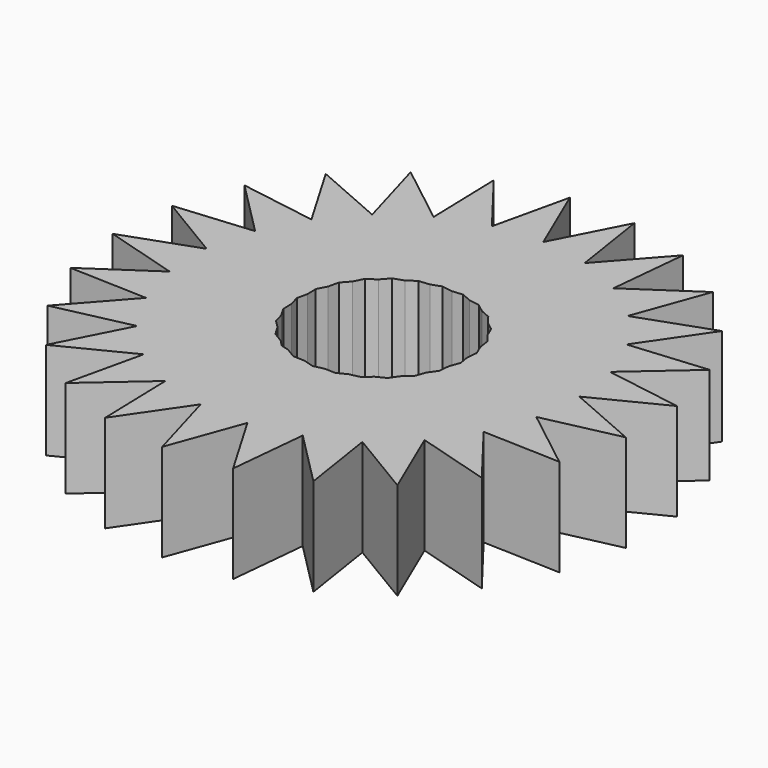
from build123d import *

# Parameters (mm, degrees)
F1_DEPTH = 6.35


with BuildPart() as f1:
    # F0 (on Top) → F1 (new body)
    with BuildSketch(Plane.XY):
        Polygon((-9.9249884928, -7.6425344914), (-12.247526979, -12.1611884982), (-7.7125556882, -9.8706744851), (-7.0632786771, -7.0134863597), align=None)
        Polygon((-14.8871129928, -8.7332862962), (-9.9249884928, -7.6425344914), (-8.5855559204, -5.0365788116), (-11.5137977688, -4.9341859484), align=None)
        Polygon((-2.689317388, 12.2344310052), (-0.9016808431, 9.9129142155), (0.4368313525, 12.5170792408), (-1.5634892742, 17.1887150212), align=None)
        Polygon((2.7602902155, 17.0375239022), (0.4368313525, 12.5170792408), (1.59009399, 9.8236995246), (3.5373152954, 12.0167021489), align=None)
        Polygon((6.9106305194, 15.8158024967), (3.5373152954, 12.0167021489), (3.9854338983, 9.1211410048), (6.4146163322, 10.759480812), align=None)
        Polygon((6.5561399087, -7.4897213623), (7.0148097041, -10.4534600445), (11.3956434652, -13.0766071379), (9.3563779673, -8.3140178118), align=None)
        Polygon((4.4824223233, -8.9371220687), (4.2014921158, -11.8008980182), (7.7812835915, -15.4061042596), (7.0148097041, -10.4534600445), align=None)
        Polygon((2.136988413, -9.7217373504), (1.1347305184, -12.4750197068), (3.7054779287, -16.8572197029), (4.2014921158, -11.8008980182), align=None)
        Polygon((-16.8305841839, 3.8246383906), (-12.478542001, 1.2187310622), (-9.7063763642, 2.2057095149), (-11.770880067, 4.2848701827), align=None)
        Polygon((-15.3506715427, 7.8900764242), (-11.770880067, 4.2848701827), (-8.8528950516, 4.5502907373), (-10.3354723423, 7.0775519423), align=None)
        Polygon((-12.9062197526, 11.4597519383), (-10.3354723423, 7.0775519423), (-7.4431537842, 6.6089604578), (-8.2506488792, 9.4255250839), align=None)
        Polygon((9.1491069561, 3.9208083979), (12.0414255143, 3.4522169134), (15.8642946714, 6.7985717154), (10.8045905545, 6.3383399234), align=None)
        Polygon((9.8367363351, 1.5223386156), (12.5216534238, 0.3491784184), (17.0566247147, 2.6396924315), (12.0414255143, 3.4522169134), align=None)
        Polygon((9.9062873932, -0.9717853007), (12.2150997973, -2.7758002408), (17.1772242973, -1.685048436), (12.5216534238, 0.3491784184), align=None)
        Polygon((-5.0971896576, -8.549710766), (-7.7125556882, -9.8706744851), (-8.8383838019, -14.8249585011), (-5.0155146449, -11.4786036991), align=None)
        Polygon((-16.5912869462, -4.7566395974), (-11.5137977688, -4.9341859484), (-9.5683711098, -2.7432044935), (-12.3791527863, -1.9158043555), align=None)
        Polygon((10.6267504922, 13.600316054), (6.4146163322, 10.759480812), (6.128559691, 7.8434464811), (8.8888634336, 8.8262017251), align=None)
        Polygon((-0.3478467723, -9.9477585018), (-2.0033303707, -12.3652900273), (-0.6031565401, -17.2491340356), (1.1347305184, -12.4750197068), align=None)
        Polygon((-9.6508227097, 14.3093690922), (-8.2506488792, 9.4255250839), (-5.5657317905, 8.2523648867), (-5.6474068032, 11.1812578198), align=None)
        Polygon((9.3533899816, -3.4048483725), (11.1410265265, -5.7263651621), (16.2185157039, -5.9039115131), (12.2150997973, -2.7758002408), align=None)
        Polygon((-17.2529693223, -0.4811157391), (-12.3791527863, -1.9158043555), (-9.9639958973, -0.2869239484), (-12.478542001, 1.2187310622), align=None)
        Polygon((8.8888634336, 8.8262017251), (7.886605539, 6.0729193688), (10.8045905545, 6.3383399234), (13.6751526491, 10.5302717351), align=None)
        Polygon((-2.8108254657, -9.5487254013), (-5.0155146449, -11.4786036991), (-4.8738924653, -16.557221839), (-2.0033303707, -12.3652900273), align=None)
        Polygon((-5.7890289828, 16.2598759598), (-5.6474068032, 11.1812578198), (-3.3385943991, 9.3772428798), (-2.689317388, 12.2344310052), align=None)
        Polygon((8.2044177088, -5.6236797282), (9.3563779673, -8.3140178118), (14.2407381212, -9.7518101167), (11.1410265265, -5.7263651621), align=None)
        Polygon((-11.5137977688, -4.9341859484), (-8.5855559204, -5.0365788116), (-7.6908568489, -3.2958819112), (-9.5683711098, -2.7432044935), align=None)
        Polygon((0.4368313525, 12.5170792408), (-0.9016808431, 9.9129142155), (0.2924044657, 8.3622135988), (1.59009399, 9.8236995246), align=None)
        Polygon((6.4146163322, 10.759480812), (3.9854338983, 9.1211410048), (4.2847631114, 7.1869967109), (6.128559691, 7.8434464811), align=None)
        Polygon((6.2568106956, -5.5555770683), (6.5561399087, -7.4897213623), (9.3563779673, -8.3140178118), (8.2044177088, -5.6236797282), align=None)
        Polygon((2.7912330824, -7.9244750742), (2.136988413, -9.7217373504), (4.2014921158, -11.8008980182), (4.4824223233, -8.9371220687), align=None)
        Polygon((0.7579645009, -8.3329230441), (-0.3478467723, -9.9477585018), (1.1347305184, -12.4750197068), (2.136988413, -9.7217373504), align=None)
        Polygon((-12.478542001, 1.2187310622), (-9.9639958973, -0.2869239484), (-8.3273524521, 0.8168952086), (-9.7063763642, 2.2057095149), align=None)
        Polygon((-10.3354723423, 7.0775519423), (-8.8528950516, 4.5502907373), (-6.9037723127, 4.7275833675), (-7.4431537842, 6.6089604578), align=None)
        Polygon((-8.2506488792, 9.4255250839), (-7.4431537842, 6.6089604578), (-5.5111754362, 6.2959560001), (-5.5657317905, 8.2523648867), align=None)
        Polygon((8.0432956829, 2.3059729401), (9.8367363351, 1.5223386156), (12.0414255143, 3.4522169134), (9.1491069561, 3.9208083979), align=None)
        Polygon((8.3640729087, 0.233240264), (9.9062873932, -0.9717853007), (12.5216534238, 0.3491784184), (9.8367363351, 1.5223386156), align=None)
        Polygon((-3.3502069371, -7.667348311), (-5.0971896576, -8.549710766), (-5.0155146449, -11.4786036991), (-2.8108254657, -9.5487254013), align=None)
        Polygon((-7.0632786771, -7.0134863597), (-7.7125556882, -9.8706744851), (-5.0971896576, -8.549710766), (-5.1517460119, -6.5933018793), align=None)
        Polygon((-12.3791527863, -1.9158043555), (-9.5683711098, -2.7432044935), (-8.2817684408, -1.2942048232), (-9.9639958973, -0.2869239484), align=None)
        Polygon((8.8888634336, 8.8262017251), (6.128559691, 7.8434464811), (5.9374828002, 5.8956267385), (7.886605539, 6.0729193688), align=None)
        Polygon((7.4349186173, -3.8265580864), (8.2044177088, -5.6236797282), (11.1410265265, -5.7263651621), (9.3533899816, -3.4048483725), align=None)
        Polygon((-2.0660911099, -7.0187697185), (-3.3502069371, -7.667348311), (-2.8108254657, -9.5487254013), (-1.3381620393, -8.2596270497), align=None)
        Polygon((-6.6295819379, -5.1049740422), (-7.0632786771, -7.0134863597), (-5.1517460119, -6.5933018793), (-5.1918475408, -5.1552478068), align=None)
        Polygon((-9.5683711098, -2.7432044935), (-7.6908568489, -3.2958819112), (-7.0432040229, -2.0358300091), (-8.2817684408, -1.2942048232), align=None)
        Polygon((-9.7063763642, 2.2057095149), (-8.3273524521, 0.8168952086), (-7.134650714, 1.621301954), (-7.8625797846, 2.8621592851), align=None)
        Polygon((-7.4431537842, 6.6089604578), (-6.9037723127, 4.7275833675), (-5.4710739073, 4.8579019275), (-5.5111754362, 6.2959560001), align=None)
        Polygon((-3.7722911382, 7.4687305622), (-2.4540265099, 6.8927218662), (-1.7963799146, 8.1722173151), (-3.3385943991, 9.3772428798), align=None)
        Polygon((1.59009399, 9.8236995246), (0.2924044657, 8.3622135988), (1.1701142599, 7.2223745025), (2.3602476918, 8.0250490774), align=None)
        Polygon((6.128559691, 7.8434464811), (4.2847631114, 7.1869967109), (4.5047843947, 5.7653081785), (5.9374828002, 5.8956267385), align=None)
        Polygon((7.2171286082, 4.2338128556), (6.7250310546, 2.8819816361), (8.0432956829, 2.3059729401), (9.1491069561, 3.9208083979), align=None)
        Polygon((7.2815948785, -0.7143086595), (8.1593046728, -1.8541477557), (9.9062873932, -0.9717853007), (8.3640729087, 0.233240264), align=None)
        Polygon((6.0367894123, -4.133888536), (6.2568106956, -5.5555770683), (8.2044177088, -5.6236797282), (7.4349186173, -3.8265580864), align=None)
        Polygon((3.2985628975, -6.5307996178), (2.7912330824, -7.9244750742), (4.4824223233, -8.9371220687), (4.6786256479, -6.9370439447), align=None)
        Polygon((-0.2556840091, -7.3120781262), (-1.3381620393, -8.2596270497), (-0.3478467723, -9.9477585018), (0.7579645009, -8.3329230441), align=None)
        Polygon((1.5475949938, -7.1798118856), (0.7579645009, -8.3329230441), (2.136988413, -9.7217373504), (2.7912330824, -7.9244750742), align=None)
        Polygon((4.8190762985, -5.5053033037), (4.6786256479, -6.9370439447), (6.5561399087, -7.4897213623), (6.2568106956, -5.5555770683), align=None)
        Polygon((6.8693397476, -2.5056805986), (7.4349186173, -3.8265580864), (9.3533899816, -3.4048483725), (8.1593046728, -1.8541477557), align=None)
        Polygon((7.2304715254, 1.1189916693), (8.3640729087, 0.233240264), (9.8367363351, 1.5223386156), (8.0432956829, 2.3059729401), align=None)
        Polygon((5.9374828002, 5.8956267385), (5.7970321496, 4.4638860976), (7.2171286082, 4.2338128556), (7.886605539, 6.0729193688), align=None)
        Polygon((3.9854338983, 9.1211410048), (2.3602476918, 8.0250490774), (2.9261977991, 6.7033045851), (4.2847631114, 7.1869967109), align=None)
        Polygon((-0.9016808431, 9.9129142155), (-1.7963799146, 8.1722173151), (-0.6627785313, 7.2864659098), (0.2924044657, 8.3622135988), align=None)
        Polygon((-5.5657317905, 8.2523648867), (-5.5111754362, 6.2959560001), (-4.0910789776, 6.0658827581), (-3.7722911382, 7.4687305622), align=None)
        Polygon((-8.8528950516, 4.5502907373), (-7.8625797846, 2.8621592851), (-6.5073011421, 3.3446812528), (-6.9037723127, 4.7275833675), align=None)
        Polygon((-9.9639958973, -0.2869239484), (-8.2817684408, -1.2942048232), (-7.3137039421, -0.2039497093), (-8.3273524521, 0.8168952086), align=None)
        Polygon((-7.6908568489, -3.2958819112), (-8.5855559204, -5.0365788116), (-6.6295819379, -5.1049740422), (-6.3107940985, -3.702126238), align=None)
        Polygon((-5.1517460119, -6.5933018793), (-5.0971896576, -8.549710766), (-3.3502069371, -7.667348311), (-3.7466781078, -6.2844461962), align=None)
        Polygon((-6.3107940985, -3.702126238), (-6.6295819379, -5.1049740422), (-5.1918475408, -5.1552478068), (-5.2234435106, -4.022205892), align=None)
        Polygon((-8.2817684408, -1.2942048232), (-7.0432040229, -2.0358300091), (-6.5150509077, -1.008272789), (-7.3137039421, -0.2039497093), align=None)
        Polygon((-7.8625797846, 2.8621592851), (-7.134650714, 1.621301954), (-6.1949217518, 2.2550935314), (-6.5073011421, 3.3446812528), align=None)
        Polygon((-5.5111754362, 6.2959560001), (-5.4710739073, 4.8579019275), (-4.3422517192, 4.9605798404), (-4.0910789776, 6.0658827581), align=None)
        Polygon((-1.7963799146, 8.1722173151), (-2.4540265099, 6.8927218662), (-1.4153666242, 6.4388849707), (-0.6627785313, 7.2864659098), align=None)
        Polygon((2.3602476918, 8.0250490774), (1.1701142599, 7.2223745025), (1.8616612642, 6.3242959832), (2.9261977991, 6.7033045851), align=None)
        Polygon((4.5047843947, 5.7653081785), (4.6781390279, 4.6451606627), (5.7970321496, 4.4638860976), (5.9374828002, 5.8956267385), align=None)
        Polygon((6.7250310546, 2.8819816361), (6.3373076963, 1.816874654), (7.2304715254, 1.1189916693), (8.0432956829, 2.3059729401), align=None)
        Polygon((6.4238103153, -1.4651717873), (6.8693397476, -2.5056805986), (8.1593046728, -1.8541477557), (7.2815948785, -0.7143086595), align=None)
        Polygon((4.9297372792, -4.3772357378), (4.8190762985, -5.5053033037), (6.2568106956, -5.5555770683), (6.0367894123, -4.133888536), align=None)
        Polygon((2.2112123096, -6.2107199638), (1.5475949938, -7.1798118856), (2.7912330824, -7.9244750742), (3.2985628975, -6.5307996178), align=None)
        Polygon((-1.0543370435, -6.5077550465), (-2.0660911099, -7.0187697185), (-1.3381620393, -8.2596270497), (-0.2556840091, -7.3120781262), align=None)
        Polygon((-5.1918475408, -5.1552478068), (-5.1517460119, -6.5933018793), (-3.7466781078, -6.2844461962), (-4.059057498, -5.1948584749), align=None)
        Polygon((-3.7466781078, -6.2844461962), (-3.3502069371, -7.667348311), (-2.0660911099, -7.0187697185), (-2.6396259747, -6.0410989944), align=None)
        Polygon((0.5665164592, -6.5923635945), (-0.2556840091, -7.3120781262), (0.7579645009, -8.3329230441), (1.5475949938, -7.1798118856), align=None)
        Polygon((3.6862862557, -5.4656926356), (3.2985628975, -6.5307996178), (4.6786256479, -6.9370439447), (4.8190762985, -5.5053033037), align=None)
        Polygon((5.8634347792, -3.0137410202), (6.0367894123, -4.133888536), (7.4349186173, -3.8265580864), (6.8693397476, -2.5056805986), align=None)
        Polygon((4.2847631114, 7.1869967109), (2.9261977991, 6.7033045851), (3.3719542022, 5.6622656967), (4.5047843947, 5.7653081785), align=None)
        Polygon((0.2924044657, 8.3622135988), (-0.6627785313, 7.2864659098), (0.2303852978, 6.5885829251), (1.1701142599, 7.2223745025), align=None)
        Polygon((-4.0910789776, 6.0658827581), (-2.9721858559, 5.884608193), (-2.4540265099, 6.8927218662), (-3.7722911382, 7.4687305622), align=None)
        Polygon((-6.9037723127, 4.7275833675), (-6.5073011421, 3.3446812528), (-5.4394779374, 3.7248600128), (-5.4710739073, 4.8579019275), align=None)
        Polygon((-8.3273524521, 0.8168952086), (-7.3137039421, -0.2039497093), (-6.5611158492, 0.6436312299), (-7.134650714, 1.621301954), align=None)
        Polygon((-7.0432040229, -2.0358300091), (-7.6908568489, -3.2958819112), (-6.3107940985, -3.702126238), (-6.0652129672, -2.6214295857), align=None)
        Polygon((-8.5855559204, -5.0365788116), (-9.9249884928, -7.6425344914), (-7.0632786771, -7.0134863597), (-6.6295819379, -5.1049740422), align=None)
        Polygon((-1.3381620393, -8.2596270497), (-2.8108254657, -9.5487254013), (-2.0033303707, -12.3652900273), (-0.3478467723, -9.9477585018), align=None)
        Polygon((4.6786256479, -6.9370439447), (4.4824223233, -8.9371220687), (7.0148097041, -10.4534600445), (6.5561399087, -7.4897213623), align=None)
        Polygon((8.1593046728, -1.8541477557), (9.3533899816, -3.4048483725), (12.2150997973, -2.7758002408), (9.9062873932, -0.9717853007), align=None)
        Polygon((7.886605539, 6.0729193688), (7.2171286082, 4.2338128556), (9.1491069561, 3.9208083979), (10.8045905545, 6.3383399234), align=None)
        Polygon((3.5373152954, 12.0167021489), (1.59009399, 9.8236995246), (2.3602476918, 8.0250490774), (3.9854338983, 9.1211410048), align=None)
        Polygon((-5.6474068032, 11.1812578198), (-5.5657317905, 8.2523648867), (-3.7722911382, 7.4687305622), (-3.3385943991, 9.3772428798), align=None)
        Polygon((-11.770880067, 4.2848701827), (-9.7063763642, 2.2057095149), (-7.8625797846, 2.8621592851), (-8.8528950516, 4.5502907373), align=None)
        Polygon((-3.3385943991, 9.3772428798), (-1.7963799146, 8.1722173151), (-0.9016808431, 9.9129142155), (-2.689317388, 12.2344310052), align=None)
        Polygon((-6.0652129672, -2.6214295857), (-6.3107940985, -3.702126238), (-5.2234435106, -4.022205892), (-5.2488747006, -3.1102350205), align=None)
        Polygon((-5.2725969431, -2.2595475681), (-5.2488747006, -3.1102350205), (-4.5339861367, -3.5382946001), (-4.7495879513, -2.7862696675), align=None)
        Polygon((-5.8506796099, -1.6773607975), (-6.0652129672, -2.6214295857), (-5.2488747006, -3.1102350205), (-5.2725969431, -2.2595475681), align=None)
        Polygon((-5.2932880012, -1.5175593906), (-5.2725969431, -2.2595475681), (-4.7495879513, -2.7862696675), (-4.9413002859, -2.1175718843), align=None)
        Polygon((-6.5150509077, -1.008272789), (-7.0432040229, -2.0358300091), (-6.0652129672, -2.6214295857), (-5.8506796099, -1.6773607975), align=None)
        Polygon((-5.6688752442, -0.8773181874), (-5.8506796099, -1.6773607975), (-5.2725969431, -2.2595475681), (-5.2932880012, -1.5175593906), align=None)
        Polygon((-5.2234435106, -4.022205892), (-5.1918475408, -5.1552478068), (-4.059057498, -5.1948584749), (-4.3189148979, -4.2884688698), align=None)
        Polygon((-4.059057498, -5.1948584749), (-3.7466781078, -6.2844461962), (-2.6396259747, -6.0410989944), (-3.1167294051, -5.2278091929), align=None)
        Polygon((-2.6396259747, -6.0410989944), (-2.0660911099, -7.0187697185), (-1.0543370435, -6.5077550465), (-1.7187083413, -5.8386670379), align=None)
        Polygon((-0.2517659208, -6.1023940673), (-1.0543370435, -6.5077550465), (-0.2556840091, -7.3120781262), (0.5665164592, -6.5923635945), align=None)
        Polygon((2.7439581628, -5.4327419176), (2.2112123096, -6.2107199638), (3.2985628975, -6.5307996178), (3.6862862557, -5.4656926356), align=None)
        Polygon((4.0088196458, -4.5796676942), (3.6862862557, -5.4656926356), (4.8190762985, -5.5053033037), (4.9297372792, -4.3772357378), align=None)
        Polygon((5.7192271726, -2.0819297997), (5.8634347792, -3.0137410202), (6.8693397476, -2.5056805986), (6.4238103153, -1.4651717873), align=None)
        Polygon((6.5900478743, 0.1837698598), (7.2815948785, -0.7143086595), (8.3640729087, 0.233240264), (7.2304715254, 1.1189916693), align=None)
        Polygon((3.3719542022, 5.6622656967), (3.7425603354, 4.7967360164), (4.6781390279, 4.6451606627), (4.5047843947, 5.7653081785), align=None)
        Polygon((2.9261977991, 6.7033045851), (1.8616612642, 6.3242959832), (2.4369348322, 5.5772161305), (3.3719542022, 5.6622656967), align=None)
        Polygon((1.8616612642, 6.3242959832), (0.9733767931, 6.0080386784), (1.6198684559, 5.5028955943), (2.4369348322, 5.5772161305), align=None)
        Polygon((-0.5513420898, 6.0613540601), (-1.2315386221, 5.6026017491), (-0.4988159775, 5.4838915915), (0.2004628252, 5.7328569136), align=None)
        Polygon((-4.3189148979, -4.2884688698), (-4.059057498, -5.1948584749), (-3.1167294051, -5.2278091929), (-3.5318665797, -4.5201495772), align=None)
        Polygon((-3.1167294051, -5.2278091929), (-2.6396259747, -6.0410989944), (-1.7187083413, -5.8386670379), (-2.2967910081, -5.2564802674), align=None)
        Polygon((-1.7187083413, -5.8386670379), (-1.0543370435, -6.5077550465), (-0.2517659208, -6.1023940673), (-0.9678523113, -5.6736172554), align=None)
        Polygon((1.3066836969, -5.944456986), (0.5665164592, -6.5923635945), (1.5475949938, -7.1798118856), (2.2112123096, -6.2107199638), align=None)
        Polygon((1.9240197658, -5.4040708431), (1.3066836969, -5.944456986), (2.2112123096, -6.2107199638), (2.7439581628, -5.4327419176), align=None)
        Polygon((3.207510915, -4.7558077617), (2.7439581628, -5.4327419176), (3.6862862557, -5.4656926356), (4.0088196458, -4.5796676942), align=None)
        Polygon((5.0217922471, -3.4388361068), (4.9297372792, -4.3772357378), (6.0367894123, -4.133888536), (5.8634347792, -3.0137410202), align=None)
        Polygon((4.2894623571, -3.808719788), (4.0088196458, -4.5796676942), (4.9297372792, -4.3772357378), (5.0217922471, -3.4388361068), align=None)
        Polygon((5.1018911037, -2.6223159426), (5.0217922471, -3.4388361068), (5.8634347792, -3.0137410202), (5.7192271726, -2.0819297997), align=None)
        Polygon((5.5937492688, -1.2711423422), (5.7192271726, -2.0819297997), (6.4238103153, -1.4651717873), (6.0533491398, -0.5999806477), align=None)
        Polygon((6.0533491398, -0.5999806477), (6.4238103153, -1.4651717873), (7.2815948785, -0.7143086595), (6.5900478743, 0.1837698598), align=None)
        Polygon((6.0147743062, 0.9308497126), (5.7313046688, 0.1521360147), (6.0533491398, -0.5999806477), (6.5900478743, 0.1837698598), align=None)
        Polygon((6.3373076963, 1.816874654), (6.0147743062, 0.9308497126), (6.5900478743, 0.1837698598), (7.2304715254, 1.1189916693), align=None)
        Polygon((5.6863711689, 3.3358185317), (5.594316201, 2.3974189007), (6.3373076963, 1.816874654), (6.7250310546, 2.8819816361), align=None)
        Polygon((4.8223466344, 3.7133494422), (4.9478245382, 2.9025619848), (5.594316201, 2.3974189007), (5.6863711689, 3.3358185317), align=None)
        Polygon((0.5196353786, -5.7127762786), (-0.2517659208, -6.1023940673), (0.5665164592, -6.5923635945), (1.3066836969, -5.944456986), align=None)
        Polygon((-0.9678523113, -5.6736172554), (-0.2517659208, -6.1023940673), (0.5196353786, -5.7127762786), (-0.1924312012, -5.5031676878), align=None)
        Polygon((1.1821965302, -5.378131249), (0.5196353786, -5.7127762786), (1.3066836969, -5.944456986), (1.9240197658, -5.4040708431), align=None)
        Polygon((-5.2488747006, -3.1102350205), (-5.2234435106, -4.022205892), (-4.3189148979, -4.2884688698), (-4.5339861367, -3.5382946001), align=None)
        Polygon((-3.5318665797, -4.5201495772), (-3.1167294051, -5.2278091929), (-2.2967910081, -5.2564802674), (-2.8197999999, -4.729758168), align=None)
        Polygon((-2.2967910081, -5.2564802674), (-1.7187083413, -5.8386670379), (-0.9678523113, -5.6736172554), (-1.6252848904, -5.2799610581), align=None)
        Polygon((-0.1924312012, -5.5031676878), (0.5196353786, -5.7127762786), (1.1821965302, -5.378131249), (0.4869847767, -5.3538215349), align=None)
        Polygon((2.4825425057, -4.9151670444), (1.9240197658, -5.4040708431), (2.7439581628, -5.4327419176), (3.207510915, -4.7558077617), align=None)
        Polygon((3.6269012055, -4.1433648177), (3.207510915, -4.7558077617), (4.0088196458, -4.5796676942), (4.2894623571, -3.808719788), align=None)
        Polygon((4.5433683637, -3.1112197413), (4.2894623571, -3.808719788), (5.0217922471, -3.4388361068), (5.1018911037, -2.6223159426), align=None)
        Polygon((5.7313046688, 0.1521360147), (5.4802255883, -0.5375982404), (5.5937492688, -1.2711423422), (6.0533491398, -0.5999806477), align=None)
        Polygon((5.594316201, 2.3974189007), (5.5142173444, 1.5808987365), (6.0147743062, 0.9308497126), (6.3373076963, 1.816874654), align=None)
        Polygon((5.7970321496, 4.4638860976), (5.6863711689, 3.3358185317), (6.7250310546, 2.8819816361), (7.2171286082, 4.2338128556), align=None)
        Polygon((4.6781390279, 4.6451606627), (4.8223466344, 3.7133494422), (5.6863711689, 3.3358185317), (5.7970321496, 4.4638860976), align=None)
        Polygon((4.9478245382, 2.9025619848), (5.0613482187, 2.1690178829), (5.5142173444, 1.5808987365), (5.594316201, 2.3974189007), align=None)
        Polygon((1.1701142599, 7.2223745025), (0.2303852978, 6.5885829251), (0.9733767931, 6.0080386784), (1.8616612642, 6.3242959832), align=None)
        Polygon((2.4369348322, 5.5772161305), (2.9374917941, 4.9271671066), (3.7425603354, 4.7967360164), (3.3719542022, 5.6622656967), align=None)
        Polygon((4.6781390279, 4.6451606627), (3.7425603354, 4.7967360164), (4.0646989138, 4.0443995715), (4.8223466344, 3.7133494422), align=None)
        Polygon((3.7425603354, 4.7967360164), (2.9374917941, 4.9271671066), (3.3903609198, 4.3390479602), (4.0646989138, 4.0443995715), align=None)
        Polygon((-0.6627785313, 7.2864659098), (-1.4153666242, 6.4388849707), (-0.5513420898, 6.0613540601), (0.2303852978, 6.5885829251), align=None)
        Polygon((-2.4540265099, 6.8927218662), (-2.9721858559, 5.884608193), (-2.0414181215, 5.7338122742), (-1.4153666242, 6.4388849707), align=None)
        Polygon((-4.3422517192, 4.9605798404), (-3.4032243448, 5.0459939756), (-2.9721858559, 5.884608193), (-4.0910789776, 6.0658827581), align=None)
        Polygon((-7.134650714, 1.621301954), (-6.5611158492, 0.6436312299), (-5.9350643519, 1.3487039263), (-6.1949217518, 2.2550935314), align=None)
        Polygon((-7.3137039421, -0.2039497093), (-6.5150509077, -1.008272789), (-6.0840124187, -0.1696585716), (-6.5611158492, 0.6436312299), align=None)
        Polygon((-6.5611158492, 0.6436312299), (-6.0840124187, -0.1696585716), (-5.7089572651, 0.5600363216), (-5.9350643519, 1.3487039263), align=None)
        Polygon((-6.1949217518, 2.2550935314), (-5.9350643519, 1.3487039263), (-5.390324505, 1.9622016888), (-5.4131943642, 2.7823223964), align=None)
        Polygon((-5.4394779374, 3.7248600128), (-5.4131943642, 2.7823223964), (-4.732997832, 3.2410747074), (-4.5511934663, 4.0411173176), align=None)
        Polygon((0.2303852978, 6.5885829251), (-0.5513420898, 6.0613540601), (0.2004628252, 5.7328569136), (0.9733767931, 6.0080386784), align=None)
        Polygon((0.9733767931, 6.0080386784), (0.2004628252, 5.7328569136), (0.8806436249, 5.4356555422), (1.6198684559, 5.5028955943), align=None)
        Polygon((0.8806436249, 5.4356555422), (1.5180861634, 5.1571284259), (2.2047691494, 5.0458772641), (1.6198684559, 5.5028955943), align=None)
        Polygon((-6.5073011421, 3.3446812528), (-6.1949217518, 2.2550935314), (-5.4131943642, 2.7823223964), (-5.4394779374, 3.7248600128), align=None)
        Polygon((-5.4710739073, 4.8579019275), (-5.4394779374, 3.7248600128), (-4.5511934663, 4.0411173176), (-4.3422517192, 4.9605798404), align=None)
        Polygon((-2.9721858559, 5.884608193), (-3.4032243448, 5.0459939756), (-2.5861579684, 5.1203145117), (-2.0414181215, 5.7338122742), align=None)
        Polygon((-1.4153666242, 6.4388849707), (-2.0414181215, 5.7338122742), (-1.2315386221, 5.6026017491), (-0.5513420898, 6.0613540601), align=None)
        Polygon((1.6198684559, 5.5028955943), (2.2047691494, 5.0458772641), (2.9374917941, 4.9271671066), (2.4369348322, 5.5772161305), align=None)
        Polygon((4.3554157408, 3.3654468512), (4.9478245382, 2.9025619848), (4.8223466344, 3.7133494422), (4.0646989138, 4.0443995715), align=None)
        Polygon((5.5142173444, 1.5808987365), (5.4406486734, 0.8309466663), (5.7313046688, 0.1521360147), (6.0147743062, 0.9308497126), align=None)
        Polygon((-6.0840124187, -0.1696585716), (-6.5150509077, -1.008272789), (-5.8506796099, -1.6773607975), (-5.6688752442, -0.8773181874), align=None)
        Polygon((-4.5511934663, 4.0411173176), (-3.7782794984, 4.3162990824), (-3.4032243448, 5.0459939756), (-4.3422517192, 4.9605798404), align=None)
        Polygon((-2.0414181215, 5.7338122742), (-2.5861579684, 5.1203145117), (-1.8469331374, 5.1875545639), (-1.2315386221, 5.6026017491), align=None)
        Polygon((-1.2315386221, 5.6026017491), (-1.8469331374, 5.1875545639), (-1.1541565212, 5.2505696763), (-0.4988159775, 5.4838915915), align=None)
        Polygon((0.2004628252, 5.7328569136), (-0.4988159775, 5.4838915915), (0.1878670086, 5.3726404298), (0.8806436249, 5.4356555422), align=None)
        Polygon((2.9374917941, 4.9271671066), (2.2047691494, 5.0458772641), (2.7529183813, 4.6175750764), (3.3903609198, 4.3390479602), align=None)
        Polygon((4.0646989138, 4.0443995715), (3.3903609198, 4.3390479602), (3.8147746128, 3.7878825027), (4.3554157408, 3.3654468512), align=None)
        Polygon((4.6251600313, 2.7354743045), (5.0613482187, 2.1690178829), (4.9478245382, 2.9025619848), (4.3554157408, 3.3654468512), align=None)
        Polygon((5.0613482187, 2.1690178829), (5.1709506859, 1.4608110748), (5.4406486734, 0.8309466663), (5.5142173444, 1.5808987365), align=None)
        Polygon((5.4406486734, 0.8309466663), (5.3738350182, 0.1498545878), (5.4802255883, -0.5375982404), (5.7313046688, 0.1521360147), align=None)
        Polygon((5.4802255883, -0.5375982404), (5.2422734299, -1.1912717939), (5.1743589783, -1.8835852863), (5.5937492688, -1.2711423422), align=None)
        Polygon((5.1743589783, -1.8835852863), (5.1018911037, -2.6223159426), (5.7192271726, -2.0819297997), (5.5937492688, -1.2711423422), align=None)
        Polygon((4.7813205222, -2.4575461877), (4.5433683637, -3.1112197413), (5.1018911037, -2.6223159426), (5.1743589783, -1.8835852863), align=None)
        Polygon((4.0199396616, -3.5694039163), (3.6269012055, -4.1433648177), (4.2894623571, -3.808719788), (4.5433683637, -3.1112197413), align=None)
        Polygon((3.0059712078, -4.4569828694), (2.4825425057, -4.9151670444), (3.207510915, -4.7558077617), (3.6269012055, -4.1433648177), align=None)
        Polygon((1.8031265278, -5.0645131973), (1.1821965302, -5.378131249), (1.9240197658, -5.4040708431), (2.4825425057, -4.9151670444), align=None)
        Polygon((-1.6252848904, -5.2799610581), (-0.9678523113, -5.6736172554), (-0.1924312012, -5.5031676878), (-0.859756019, -5.3067295756), align=None)
        Polygon((-2.8197999999, -4.729758168), (-2.2967910081, -5.2564802674), (-1.6252848904, -5.2799610581), (-2.2776176458, -4.8893585234), align=None)
        Polygon((-4.5339861367, -3.5382946001), (-4.3189148979, -4.2884688698), (-3.5318665797, -4.5201495772), (-3.8771245311, -3.9316089109), align=None)
        Polygon((-3.8771245311, -3.9316089109), (-3.5318665797, -4.5201495772), (-2.8197999999, -4.729758168), (-3.2240073528, -4.3226811408), align=None)
        Polygon((-4.7495879513, -2.7862696675), (-4.5339861367, -3.5382946001), (-3.8771245311, -3.9316089109), (-4.259441538, -3.2798958802), align=None)
        Polygon((-5.5043912985, -0.153495276), (-5.6688752442, -0.8773181874), (-5.2932880012, -1.5175593906), (-5.312678964, -0.8221930591), align=None)
        Polygon((-5.7089572651, 0.5600363216), (-6.0840124187, -0.1696585716), (-5.6688752442, -0.8773181874), (-5.5043912985, -0.153495276), align=None)
        Polygon((-5.3696334469, 1.2202135113), (-5.7089572651, 0.5600363216), (-5.5043912985, -0.153495276), (-5.3502424841, 0.5248471798), align=None)
        Polygon((-5.9350643519, 1.3487039263), (-5.7089572651, 0.5600363216), (-5.3696334469, 1.2202135113), (-5.390324505, 1.9622016888), align=None)
        Polygon((-5.4131943642, 2.7823223964), (-5.390324505, 1.9622016888), (-4.8974817776, 2.5172517961), (-4.732997832, 3.2410747074), align=None)
        Polygon((-4.732997832, 3.2410747074), (-4.1176033166, 3.6561218927), (-3.7782794984, 4.3162990824), (-4.5511934663, 4.0411173176), align=None)
        Polygon((-3.4032243448, 5.0459939756), (-3.7782794984, 4.3162990824), (-3.0790006958, 4.5652644045), (-2.5861579684, 5.1203145117), align=None)
        Polygon((-5.390324505, 1.9622016888), (-5.3696334469, 1.2202135113), (-5.0516305921, 1.8389093402), (-4.8974817776, 2.5172517961), align=None)
        Polygon((-4.8974817776, 2.5172517961), (-4.4356061714, 3.0374260637), (-4.1176033166, 3.6561218927), (-4.732997832, 3.2410747074), align=None)
        Polygon((-3.7782794984, 4.3162990824), (-4.1176033166, 3.6561218927), (-3.540876302, 4.0450901368), (-3.0790006958, 4.5652644045), align=None)
        Polygon((-2.5861579684, 5.1203145117), (-3.0790006958, 4.5652644045), (-2.423660152, 4.7985863197), (-1.8469331374, 5.1875545639), align=None)
    extrude(amount=F1_DEPTH)


solid = f1.part
